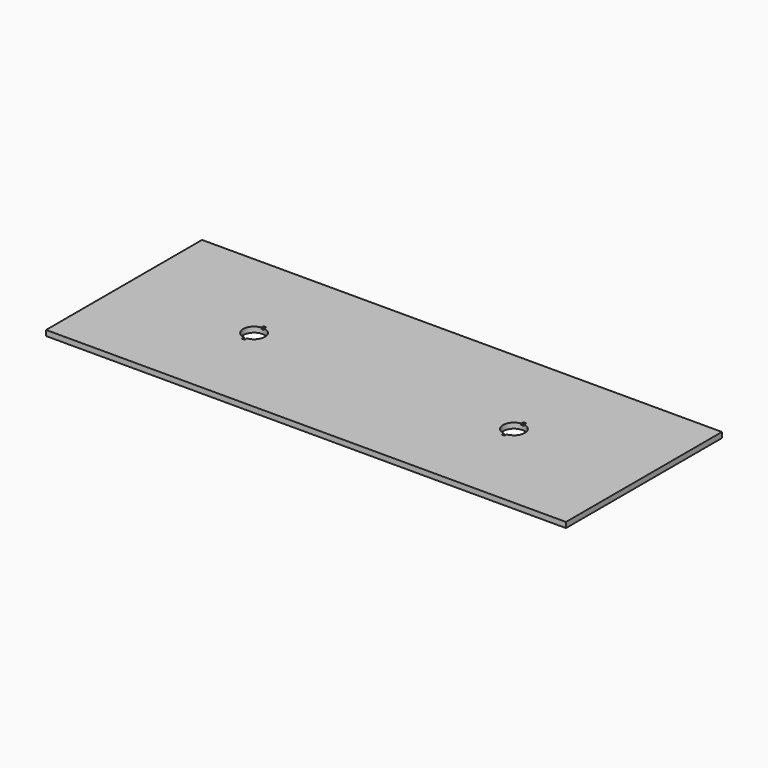
from build123d import *

# Parameters (mm, degrees)
F1_DEPTH = 12.7
F2_R     = 25.4
F3_DEPTH = 12.7
F5_DEPTH = 3.175


with BuildPart() as f1:
    # F0 (on Top) → F1 (new body)
    with BuildSketch(Plane.XY):
        Polygon((0, 0), (88.9, 0), (1130.3, 0), (1219.2, 0), (1219.2, 19.05), (1219.2, 438.15), (1219.2, 457.2), (1130.3, 457.2), (88.9, 457.2), (0, 457.2), (0, 438.15), (0, 19.05), align=None)
    extrude(amount=F1_DEPTH)

    # F2 (on face) → F3 (cut, through all)
    with BuildSketch(Plane.XY.offset(12.7)):
        with Locations((914.4, 228.6)):
            Circle(F2_R)
        with Locations((304.8, 228.6)):
            Circle(F2_R)
    extrude(amount=-F3_DEPTH, mode=Mode.SUBTRACT)

    # F4 (on face) → F5 (cut)
    with BuildSketch(Plane.XY.offset(12.7)):
        with BuildLine():
            Line((301.625, 260.35), (301.625, 253.8007812379))
            ThreePointArc((301.625, 253.8007812379), (304.8, 254), (307.975, 253.8007812379))
            Line((307.975, 253.8007812379), (307.975, 260.35))
            Line((307.975, 260.35), (304.8, 260.35))
            Line((304.8, 260.35), (301.625, 260.35))
        make_face()
        with BuildLine():
            ThreePointArc((307.975, 203.3992187621), (304.8, 203.2), (301.625, 203.3992187621))
            Line((301.625, 203.3992187621), (301.625, 196.85))
            Line((301.625, 196.85), (304.8, 196.85))
            Line((304.8, 196.85), (307.975, 196.85))
            Line((307.975, 196.85), (307.975, 203.3992187621))
        make_face()
        with BuildLine():
            Line((917.575, 196.85), (917.575, 203.3992187621))
            ThreePointArc((917.575, 203.3992187621), (914.4, 203.2), (911.225, 203.3992187621))
            Line((911.225, 203.3992187621), (911.225, 196.85))
            Line((911.225, 196.85), (914.4, 196.85))
            Line((914.4, 196.85), (917.575, 196.85))
        make_face()
        with BuildLine():
            ThreePointArc((911.225, 253.8007812379), (914.4, 254), (917.575, 253.8007812379))
            Line((917.575, 253.8007812379), (917.575, 260.35))
            Line((917.575, 260.35), (914.4, 260.35))
            Line((914.4, 260.35), (911.225, 260.35))
            Line((911.225, 260.35), (911.225, 253.8007812379))
        make_face()
    extrude(amount=-F5_DEPTH, mode=Mode.SUBTRACT)


solid = f1.part
